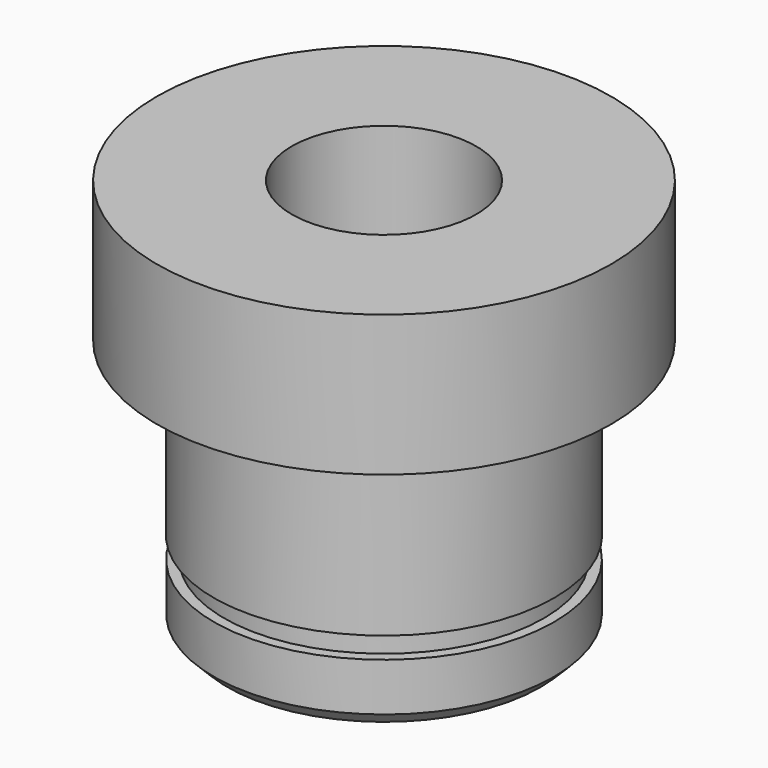
from build123d import *

# Parameters (mm, degrees)
F0_R     = 12.7
F1_DEPTH = 7.874
F2_R     = 9.525
F3_DEPTH = 9.5758
F4_R     = 8.9408
F5_DEPTH = 1.1938
F6_R     = 9.5123
F7_DEPTH = 3.4544
F8_SIZE  = 0.762
F10_D    = 10.3124


with BuildPart() as f1:
    # F0 (on Top) → F1 (new body)
    with BuildSketch(Plane.XY):
        Circle(F0_R)
    extrude(amount=F1_DEPTH)

    # F2 (on Top) → F3 (join)
    with BuildSketch(Plane.XY):
        Circle(F2_R)
    extrude(amount=-F3_DEPTH)

    # F4 (on face) → F5 (join)
    with BuildSketch(Plane(origin=(0, 0, -9.5758), x_dir=(1, 0, 0), z_dir=(0, 0, -1))):
        Circle(F4_R)
    extrude(amount=F5_DEPTH)

    # F6 (on face) → F7 (join)
    with BuildSketch(Plane(origin=(0, 0, -10.7696), x_dir=(1, 0, 0), z_dir=(0, 0, -1))):
        Circle(F6_R)
    extrude(amount=F7_DEPTH)

    # F8
    f8_edges = [f1.edges().sort_by_distance(p)[0] for p in [
        (-9.5123, 0, -14.224),
    ]]
    chamfer(f8_edges, length=F8_SIZE)

    # F10 (through all)
    with Locations(Plane(origin=(0, 0, -14.224), x_dir=(1, 0, 0), z_dir=(0, 0, -1))):
        with Locations((0, 0)):
            Hole(F10_D / 2)


solid = f1.part
